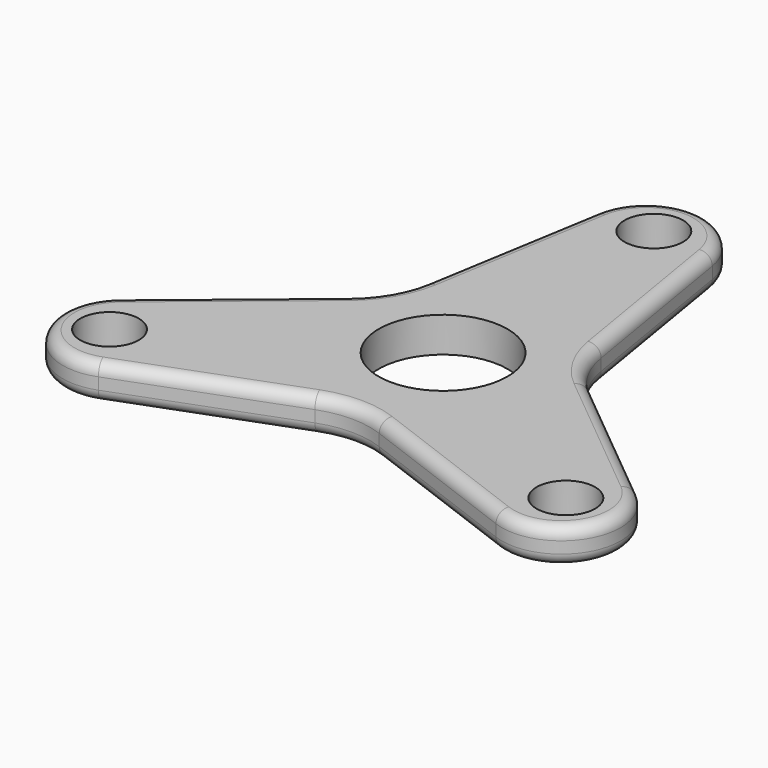
from build123d import *

# Parameters (mm, degrees)
F0_R     = 5
F0_R_2   = 11
F1_DEPTH = 6
F2_R     = 2


with BuildPart() as f1:
    # F0 (on Top) → F1 (new body)
    with BuildSketch(Plane.XY):
        with BuildLine():
            ThreePointArc((10, 44.979472), (0, 53.449789), (-10, 44.979472))
            Line((-10, 44.979472), (-15, 15))
            ThreePointArc((-15, 15), (-16.884039, 9.748004), (-20.490381, 5.490381))
            Line((-20.490381, 5.490381), (-43.953365, -13.829482))
            ThreePointArc((-43.953365, -13.829482), (-46.288875, -26.724895), (-33.953365, -31.14999))
            Line((-33.953365, -31.14999), (-5.490381, -20.490381))
            ThreePointArc((-5.490381, -20.490381), (0, -19.496009), (5.490381, -20.490381))
            Line((5.490381, -20.490381), (33.953365, -31.14999))
            ThreePointArc((33.953365, -31.14999), (46.288875, -26.724895), (43.953365, -13.829482))
            Line((43.953365, -13.829482), (20.490381, 5.490381))
            ThreePointArc((20.490381, 5.490381), (16.884039, 9.748004), (15, 15))
            Line((15, 15), (10, 44.979472))
        make_face()
        with Locations((-38.971143, -22.5)):
            Circle(F0_R, mode=Mode.SUBTRACT)
        with Locations((38.971143, -22.5)):
            Circle(F0_R, mode=Mode.SUBTRACT)
        Circle(F0_R_2, mode=Mode.SUBTRACT)
        with Locations((0, 45)):
            Circle(F0_R, mode=Mode.SUBTRACT)
    extrude(amount=F1_DEPTH)

    # F2
    f2_edges = [f1.edges().sort_by_distance(p)[0] for p in [
        (-12.5, 29.989736, 6),
        (-12.5, 29.989736, 0),
    ]]
    fillet(f2_edges, radius=F2_R)


solid = f1.part
